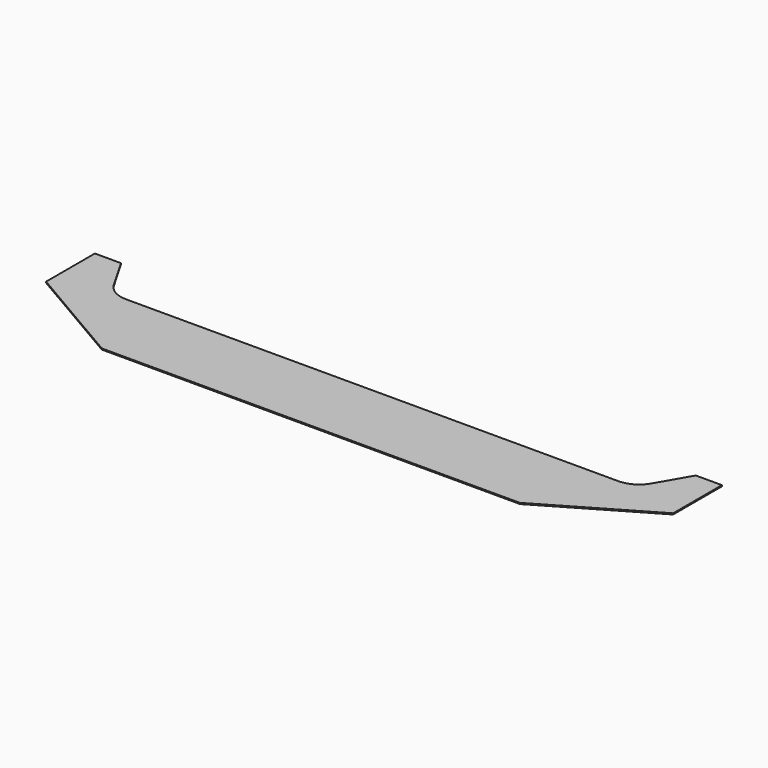
from build123d import *

# Parameters (mm, degrees)
F1_DEPTH = 3.175


with BuildPart() as f1:
    # F0 (on Top) → F1 (new body)
    with BuildSketch(Plane.XY):
        with BuildLine():
            Line((914.4, -45.817728), (914.4, 131.982272))
            Line((914.4, 131.982272), (838.2, 131.982272))
            Line((838.2, 131.982272), (783.997045, 38.1))
            ThreePointArc((783.997045, 38.1), (756.105909, 10.208864), (718.005909, 0))
            Line((718.005909, 0), (-718.005909, 0))
            ThreePointArc((-718.005909, 0), (-756.105909, 10.208864), (-783.997045, 38.1))
            Line((-783.997045, 38.1), (-838.2, 131.982272))
            Line((-838.2, 131.982272), (-914.4, 131.982272))
            Line((-914.4, 131.982272), (-914.4, -45.817728))
            Line((-914.4, -45.817728), (-609.6, -223.617728))
            Line((-609.6, -223.617728), (609.6, -223.617728))
            Line((609.6, -223.617728), (914.4, -45.817728))
        make_face()
    extrude(amount=F1_DEPTH)


solid = f1.part
